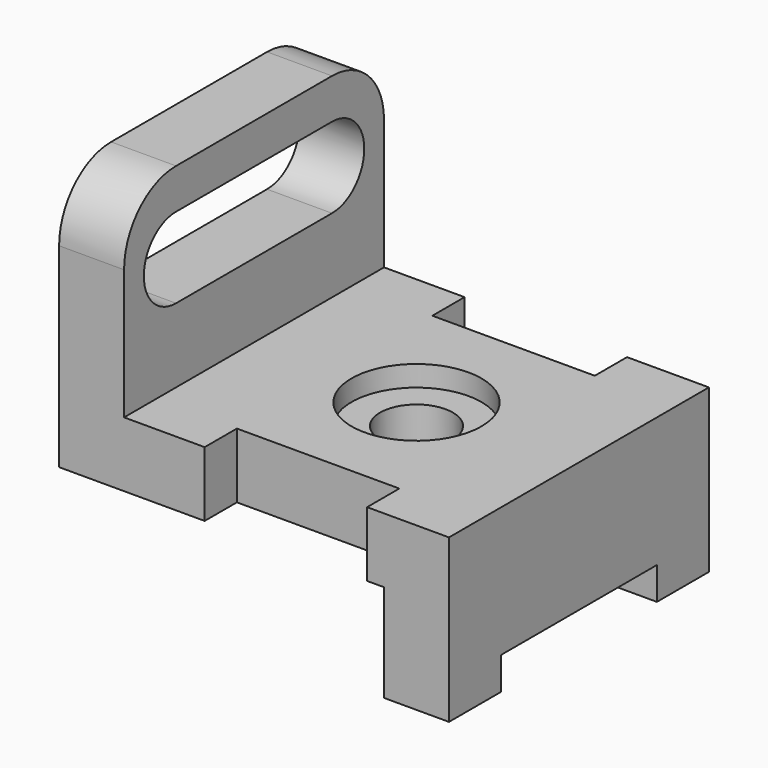
from build123d import *

# Parameters (mm, degrees)
F0_W       = 76.2
F0_H       = 69.85
F1_DEPTH   = 63.5
F2_W       = 38.1
F2_H       = 6.35
F3_DEPTH   = 76.201
F4_W       = 63.5
F4_H       = 19.05
F5_DEPTH   = 63.501
F6_W       = 63.5
F6_H       = 38.1
F7_DEPTH   = 63.501
F8_W       = 31.75
F8_H       = 7.874
F9_DEPTH   = 25.4
F11_DEPTH  = 25.4
F12_W      = 38.1
F12_H      = 15.748
F13_DEPTH  = 12.701
F14_R      = 12.7
F14_R_2    = 7.112
F15_DEPTH  = 4.064
F15_FACE_R = 7.112
F16_DEPTH  = 31.751


with BuildPart() as f1:
    # F0 (on Front) → F1 (new body)
    with BuildSketch(Plane.XZ):
        with Locations((38.1, 34.925)):
            Rectangle(F0_W, F0_H)
    extrude(amount=F1_DEPTH)

    # F2 (on face) → F3 (cut, through all)
    with BuildSketch(Plane.YZ.offset(76.2)):
        with Locations((-31.75, 3.175)):
            Rectangle(F2_W, F2_H)
    extrude(amount=-F3_DEPTH, mode=Mode.SUBTRACT)

    # F4 (on face) → F5 (cut, through all)
    with BuildSketch(Plane.XZ.offset(63.5)):
        with Locations((31.75, 9.525)):
            Rectangle(F4_W, F4_H)
    extrude(amount=-F5_DEPTH, mode=Mode.SUBTRACT)

    # F6 (on face) → F7 (cut, through all)
    with BuildSketch(Plane.XZ.offset(63.5)):
        with Locations((44.45, 50.8)):
            Rectangle(F6_W, F6_H)
    extrude(amount=-F7_DEPTH, mode=Mode.SUBTRACT)

    # F8 (on face) → F9 (cut)
    with BuildSketch(Plane.XY.offset(31.75)):
        with Locations((44.323, -59.563)):
            Rectangle(F8_W, F8_H)
        with Locations((44.323, -3.937)):
            Rectangle(F8_W, F8_H)
    extrude(amount=-F9_DEPTH, mode=Mode.SUBTRACT)

    # F10 (on face) → F11 (cut)
    with BuildSketch(Plane.YZ.offset(12.7)):
        with BuildLine():
            ThreePointArc((-63.5, 57.15), (-59.780256, 66.130256), (-50.8, 69.85))
            Line((-50.8, 69.85), (-63.5, 69.85))
            Line((-63.5, 69.85), (-63.5, 57.15))
        make_face()
        with BuildLine():
            Line((0, 69.85), (-12.7, 69.85))
            ThreePointArc((-12.7, 69.85), (-3.719744, 66.130256), (0, 57.15))
            Line((0, 57.15), (0, 69.85))
        make_face()
    extrude(amount=-F11_DEPTH, mode=Mode.SUBTRACT)

    # F12 (on face) → F13 (cut, through all)
    with BuildSketch(Plane.YZ.offset(12.7)):
        with Locations((-31.75, 54.102)):
            Rectangle(F12_W, F12_H)
        with BuildLine():
            Line((-50.8, 46.228), (-50.8, 61.976))
            ThreePointArc((-50.8, 61.976), (-58.674, 54.102), (-50.8, 46.228))
        make_face()
        with BuildLine():
            ThreePointArc((-12.7, 46.228), (-4.826, 54.102), (-12.7, 61.976))
            Line((-12.7, 61.976), (-12.7, 46.228))
        make_face()
    extrude(amount=-F13_DEPTH, mode=Mode.SUBTRACT)

    # F14 (on face) → F15 (cut)
    with BuildSketch(Plane.XY.offset(31.75)):
        with Locations((44.45, -31.75)):
            Circle(F14_R)
        with Locations((44.45, -31.75)):
            Circle(F14_R_2, mode=Mode.SUBTRACT)
    extrude(amount=-F15_DEPTH, mode=Mode.SUBTRACT)

    # F15_face (on face) → F16 (cut, through all)
    with BuildSketch(Plane(origin=(44.45, -31.75, 31.75), x_dir=(1, 0, 0), z_dir=(0, 0, 1))):
        Circle(F15_FACE_R)
    extrude(amount=-F16_DEPTH, mode=Mode.SUBTRACT)


solid = f1.part
